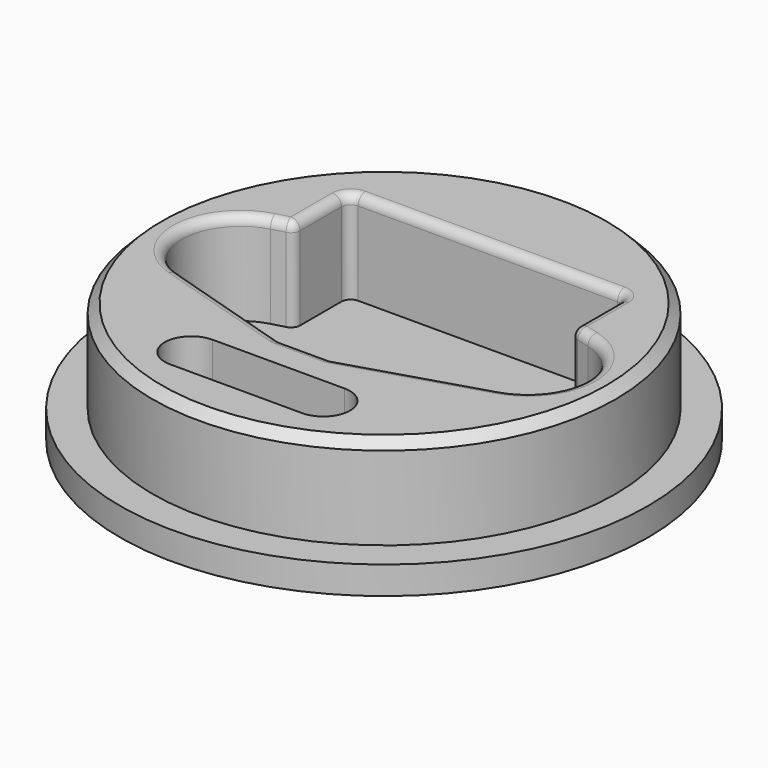
from build123d import *

# Parameters (mm, degrees)
SKETCH_R          = 25
PAD_DEPTH         = 10
SKETCH001_R       = 28.5
PAD001_DEPTH      = 3
SKETCH002_R       = 4.25
SKETCH002_R_2     = 2.65
POCKET_DEPTH      = 10.501
POCKET_DEPTH_BACK = -2.501
FILLET_R          = 1
FILLET001_R       = 1
CHAMFER_SIZE      = 1
POCKET001_DEPTH   = 13.001


with BuildPart() as part:
    # Sketch → Pad (new body)
    with BuildSketch(Plane.XY):
        Circle(SKETCH_R)
        with BuildLine():
            ThreePointArc((17.347253, -6.023093), (21.799021, 0.111063), (17.133775, 6.08447))
            Line((15, 6.657422), (17.133775, 6.08447))
            Line((15, 14), (15, 6.657422))
            Line((-15, 14), (15, 14))
            Line((-15, 14), (-15, 6.657422))
            Line((-17.133775, 6.08447), (-15, 6.657422))
            ThreePointArc((-17.133775, 6.08447), (-21.799021, 0.111063), (-17.347253, -6.023093))
            Line((-17.347253, -6.023093), (-2.75, -10.5))
            Line((-2.75, -10.5), (2.75, -10.5))
            Line((17.347253, -6.023093), (2.75, -10.5))
        make_face(mode=Mode.SUBTRACT)
    extrude(amount=PAD_DEPTH)

    # Sketch001 (on Face12 of Pad) → Pad001 (join)
    with BuildSketch(Plane(origin=(0, 0, 0), x_dir=(1, 0, 0), z_dir=(0, 0, -1))):
        Circle(SKETCH001_R)
    extrude(amount=PAD001_DEPTH)

    # Sketch002 → Pocket (cut, two sides)
    with BuildSketch(Plane(origin=(0, 0, -0.5), x_dir=(1, 0, 0), z_dir=(0, 0, -1))) as pocket_sk:
        Circle(SKETCH002_R)
        with Locations((-15.75, 0)):
            Circle(SKETCH002_R_2)
        with Locations((15.75, 0)):
            Circle(SKETCH002_R_2)
    extrude(amount=-POCKET_DEPTH, mode=Mode.SUBTRACT)
    extrude(pocket_sk.sketch, amount=-POCKET_DEPTH_BACK, mode=Mode.SUBTRACT)

    # Fillet
    fillet_edges = [part.edges().sort_by_distance(p)[0] for p in [
        (15, 6.657422, 5),
        (15, 14, 5),
        (-15, 6.657422, 5),
        (-15, 14, 5),
        (-2.75, -10.5, 5),
        (2.75, -10.5, 5),
    ]]
    fillet(fillet_edges, radius=FILLET_R)

    # Fillet001
    fillet001_edges = [part.edges().sort_by_distance(p)[0] for p in [
        (0, 14, 10),
        (-15, 10.212165, 10),
        (-21.799021, 0.111063, 10),
        (-10.120283, -8.23957, 10),
        (0, -10.5, 10),
        (10.120283, -8.23957, 10),
        (21.799021, 0.111063, 10),
        (15, 10.212165, 10),
        (14.707107, 13.707107, 10),
        (15.206486, 6.815778, 10),
        (16.437223, 6.271505, 10),
        (-16.437223, 6.271505, 10),
        (-15.206486, 6.815778, 10),
        (-14.707107, 13.707107, 10),
        (-2.748344, -10.488951, 10),
        (2.748344, -10.488951, 10),
    ]]
    fillet(fillet001_edges, radius=FILLET001_R)

    # Chamfer
    chamfer_edges = [part.edges().sort_by_distance(p)[0] for p in [
        (-25, 0, 10),
    ]]
    chamfer(chamfer_edges, length=CHAMFER_SIZE)

    # Sketch003 (on Face1 of Chamfer) → Pocket001 (cut, through all)
    with BuildSketch(Plane.XY.offset(10)):
        with BuildLine():
            ThreePointArc((-7.124188, -14.225591), (-9.999095, -17.100498), (-7.124188, -19.975405))
            Line((-7.124188, -19.975405), (7.124188, -19.975405))
            ThreePointArc((7.124188, -19.975405), (9.999095, -17.100498), (7.124188, -14.225591))
            Line((-7.124188, -14.225591), (7.124188, -14.225591))
        make_face()
    extrude(amount=-POCKET001_DEPTH, mode=Mode.SUBTRACT)


solid = part.part
